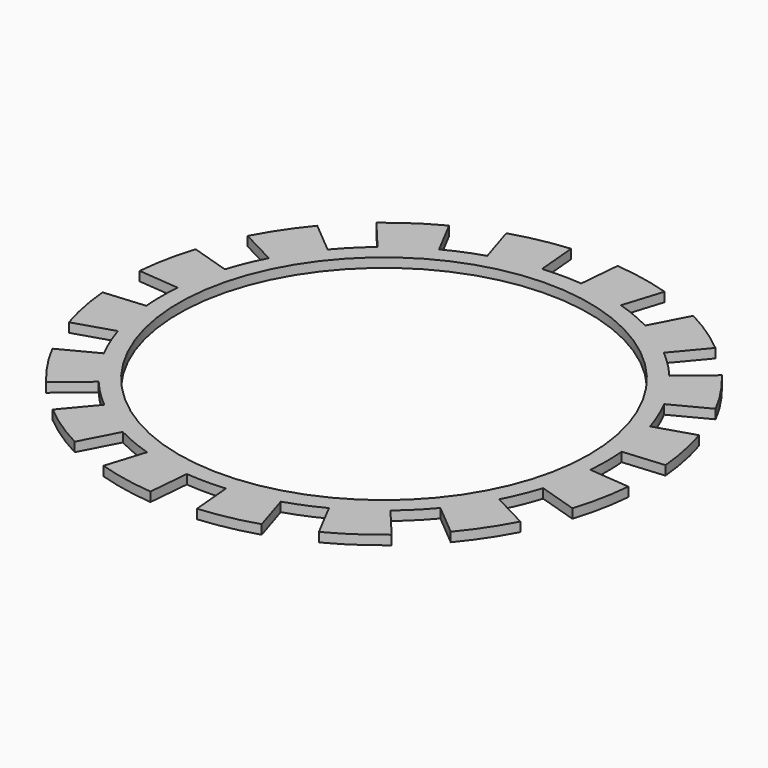
from build123d import *

# Parameters (mm, degrees)
SKETCH_R           = 27
SKETCH_R_2         = 21
PAD_DEPTH          = 0.95
POCKET_DEPTH       = 153.697882
POLARPATTERN_COUNT = 16


with BuildPart() as part:
    # Sketch → Pad (new body)
    with BuildSketch(Plane.XY):
        Circle(SKETCH_R)
        Circle(SKETCH_R_2, mode=Mode.SUBTRACT)
    extrude(amount=PAD_DEPTH)

    # Sketch001 → Pocket (cut, through all)
    with BuildSketch(Plane.XY.offset(0.95)):
        with BuildLine():
            ThreePointArc((22.711547, -2.0064), (22.8, 0), (22.711547, 2.0064))
            Line((22.711547, 2.0064), (30, 2.650282))
            Line((30, 2.650282), (30, -2.650282))
            Line((30, -2.650282), (22.711547, -2.0064))
        make_face()
    pocket = extrude(amount=-POCKET_DEPTH, mode=Mode.SUBTRACT)

    # PolarPattern: Pocket ×16 about axis
    polarpattern_axis = Axis((0, 0, 0.95), (0, 0, 1))
    for i in range(1, POLARPATTERN_COUNT):
        add(pocket.rotate(polarpattern_axis, i * 360 / POLARPATTERN_COUNT), mode=Mode.SUBTRACT)


solid = part.part
